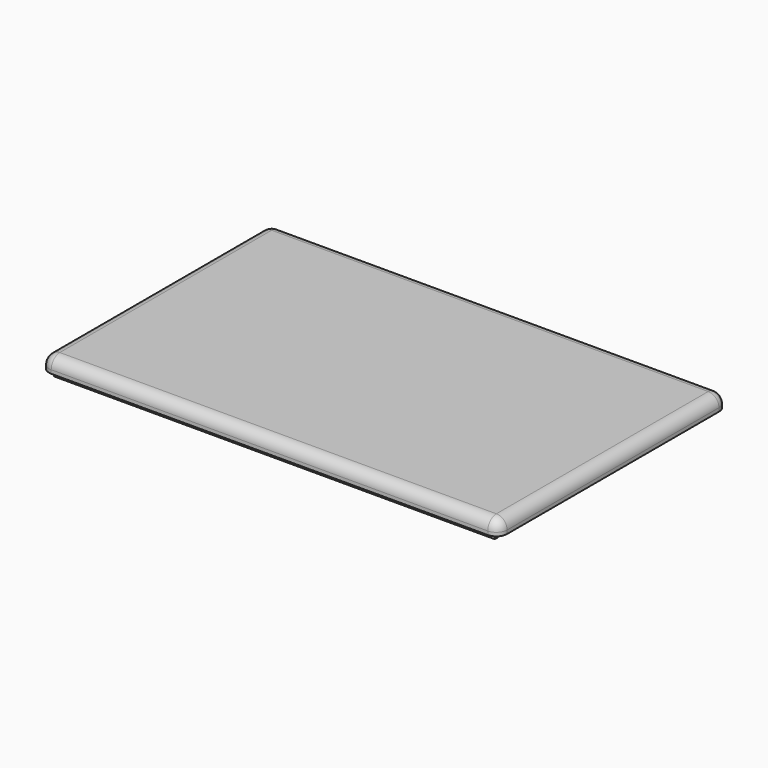
from build123d import *

# Parameters (mm, degrees)
F0_W     = 128
F0_H     = 80
F1_DEPTH = 4
F2_W     = 7.8
F2_H     = 0.9
F2_W_2   = 1.8
F2_H_2   = 72.2
F3_DEPTH = 1.8
F4_W     = 4.2
F4_H     = 72.2
F5_DEPTH = 2
F6_W     = 4.2
F6_H     = 0.1
F7_DEPTH = 3.8
F8_R     = 3


with BuildPart() as f1:
    # F0 (on Top) → F1 (new body)
    with BuildSketch(Plane.XY):
        Rectangle(F0_W, F0_H)
    extrude(amount=F1_DEPTH)

    # F2 (on face) → F3 (join)
    with BuildSketch(Plane(origin=(0, 0, 0), x_dir=(1, 0, 0), z_dir=(0, 0, -1))):
        Polygon((53.5, 37.9), (-61.9, 37.9), (-61.9, 36.1), (-60.1, 36.1), (53.5, 36.1), (53.5, 37), align=None)
        with Locations((57.4, 37.45)):
            Rectangle(F2_W, F2_H)
        with Locations((-61, 0)):
            Rectangle(F2_W_2, F2_H_2)
        Polygon((-60.1, -36.1), (-61.9, -36.1), (-61.9, -37.9), (53.5, -37.9), (53.5, -37), (53.5, -36.1), align=None)
        with Locations((57.4, -37.45)):
            Rectangle(F2_W, F2_H)
    extrude(amount=F3_DEPTH)

    # F4 (on face) → F5 (cut)
    with BuildSketch(Plane(origin=(0, 0, 0), x_dir=(1, 0, 0), z_dir=(0, 0, -1))):
        with Locations((-48, 0)):
            Rectangle(F4_W, F4_H)
    extrude(amount=-F5_DEPTH, mode=Mode.SUBTRACT)

    # F6 (on face) → F7 (cut)
    with BuildSketch(Plane(origin=(0, 0, -1.8), x_dir=(1, 0, 0), z_dir=(0, 0, -1))):
        with Locations((-48, 36.15)):
            Rectangle(F6_W, F6_H)
        with Locations((-48, -36.15)):
            Rectangle(F6_W, F6_H)
    extrude(amount=-F7_DEPTH, mode=Mode.SUBTRACT)

    # F8
    f8_edges = [f1.edges().sort_by_distance(p)[0] for p in [
        (64, -40, 2),
        (64, 40, 2),
        (-64, 40, 2),
        (-64, -40, 2),
        (0, -40, 4),
        (-64, 0, 4),
        (0, 40, 4),
        (64, 0, 4),
    ]]
    fillet(f8_edges, radius=F8_R)


solid = f1.part
